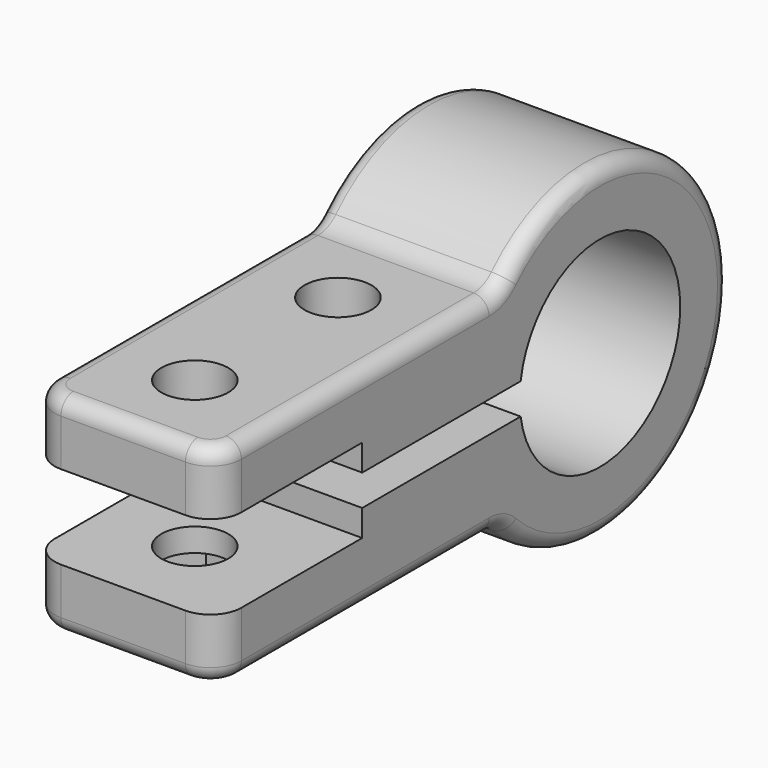
from build123d import *

# Parameters (mm, degrees)
PAD_DEPTH       = 24
SKETCH001_R     = 4.3
POCKET_DEPTH    = 34.301
POCKET001_DEPTH = 5
FILLET_R        = 4
FILLET001_R     = 2


with BuildPart() as part:
    # Sketch → Pad (new body)
    with BuildSketch(Plane.YZ):
        with BuildLine():
            ThreePointArc((-16.039015, -13.4), (20.9, 0), (-16.039015, 13.4))
            Line((-61.6, 13.4), (-16.039015, 13.4))
            Line((-61.6, 13.4), (-61.6, 5.4))
            Line((-61.6, 5.4), (-38.2, 5.4))
            Line((-38.2, 5.4), (-38.2, 2))
            Line((-38.2, 2), (-12.744018, 2))
            ThreePointArc((-12.744018, -2), (12.9, 0), (-12.744018, 2))
            Line((-38.2, -2), (-12.744018, -2))
            Line((-38.2, -5.4), (-38.2, -2))
            Line((-61.6, -5.4), (-38.2, -5.4))
            Line((-61.6, -13.4), (-61.6, -5.4))
            Line((-61.6, -13.4), (-16.039015, -13.4))
        make_face()
    extrude(amount=PAD_DEPTH)

    # Sketch001 (on Face5 of Pad) → Pocket (cut, through all)
    with BuildSketch(Plane(origin=(0, 0, 13.4), x_dir=(0, -1, 0), z_dir=(0, 0, 1))):
        with Locations((50.1, 12)):
            Circle(SKETCH001_R)
        with Locations((27.1, 12)):
            Circle(SKETCH001_R)
    extrude(amount=-POCKET_DEPTH, mode=Mode.SUBTRACT)

    # Sketch002 (on Face7 of Pocket) → Pocket001 (cut)
    with BuildSketch(Plane.YX.offset(13.4)):
        Polygon((-43.5, 8.189488), (-43.5, 15.810512), (-50.1, 19.621024), (-56.7, 15.810512), (-56.7, 8.189488), (-50.1, 4.378976), align=None)
        Polygon((-20.5, 8.189488), (-20.5, 15.810512), (-27.1, 19.621024), (-33.7, 15.810512), (-33.7, 8.189488), (-27.1, 4.378976), align=None)
    extrude(amount=-POCKET001_DEPTH, mode=Mode.SUBTRACT)

    # Fillet
    fillet_edges = [part.edges().sort_by_distance(p)[0] for p in [
        (12, -16.039015, -13.4),
        (12, -16.039015, 13.4),
        (0, -61.6, 9.4),
        (24, -61.6, 9.4),
        (0, -61.6, -9.4),
        (24, -61.6, -9.4),
    ]]
    fillet(fillet_edges, radius=FILLET_R)

    # Fillet001
    fillet001_edges = [part.edges().sort_by_distance(p)[0] for p in [
        (0, -37.705757, -13.4),
    ]]
    fillet(fillet001_edges, radius=FILLET001_R)


solid = part.part
